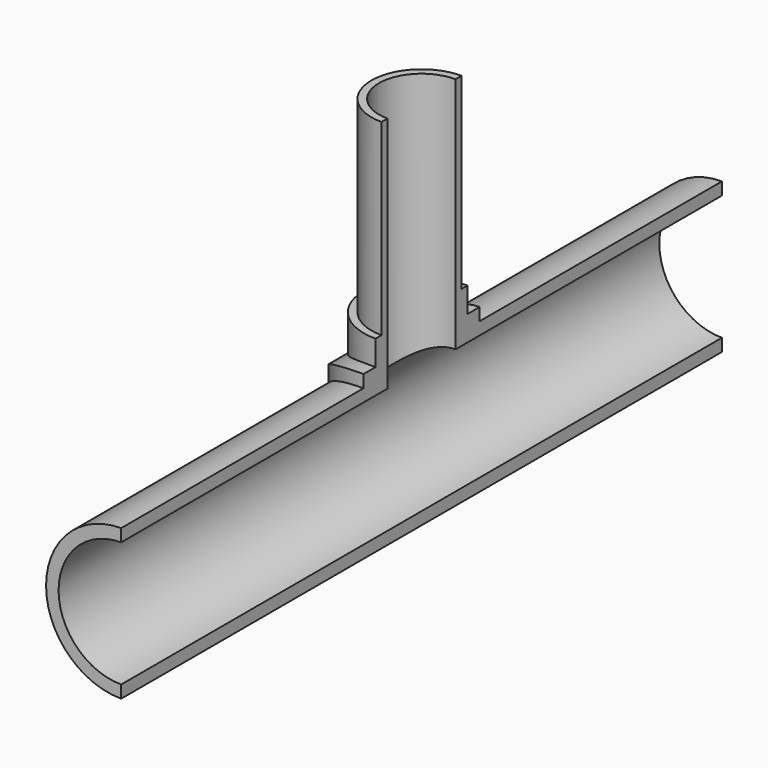
from build123d import *

# Parameters (mm, degrees)
BOX002_W               = 500
BOX002_H               = 1800
BOX002_DEPTH           = 1000
CYLINDER011_R          = 125
CYLINDER011_DEPTH      = 1500
CYLINDER011_ROLL_ANGLE = 90
BOX001_W               = 500
BOX001_H               = 1800
BOX001_DEPTH           = 1000
CYLINDER007_R          = 125
CYLINDER007_DEPTH      = 1500
CYLINDER007_ROLL_ANGLE = 90
CYLINDER006_R          = 85
CYLINDER006_DEPTH      = 600
CYLINDER002_R          = 115
CYLINDER002_DEPTH      = 225
CYLINDER001_R          = 150
CYLINDER001_DEPTH      = 1500
CYLINDER001_ROLL_ANGLE = 90
CYLINDER_R             = 100
CYLINDER_DEPTH         = 600
BOX_W                  = 500
BOX_H                  = 500
BOX_DEPTH              = 500
CYLINDER004_R          = 145
CYLINDER004_DEPTH      = 600
CYLINDER005_R          = 300
CYLINDER005_DEPTH      = 600
CYLINDER003_R          = 175
CYLINDER003_DEPTH      = 400
CYLINDER003_ROLL_ANGLE = 90
CYLINDER010_R          = 150
CYLINDER010_DEPTH      = 200
CYLINDER010_ROLL_ANGLE = 90
CYLINDER009_R          = 150
CYLINDER009_DEPTH      = 200
CYLINDER009_ROLL_ANGLE = 90


with BuildPart() as cube002:
    # Box002 → Box002 (new body)
    with BuildSketch(Plane(origin=(0, -815, -274), x_dir=(1, 0, 0), z_dir=(0, 0, 1))):
        with Locations((250, 900)):
            Rectangle(BOX002_W, BOX002_H)
    extrude(amount=BOX002_DEPTH)


with BuildPart() as cylinder011:
    # Cylinder011 → Cylinder011 (new body)
    with BuildSketch(Plane.XY):
        Circle(CYLINDER011_R)
    extrude(amount=CYLINDER011_DEPTH)


with BuildPart() as cylinder011_1:
    # Cylinder011 roll: moved
    add(cylinder011.part.rotate(Axis((0, 0, 0), (1, 0, 0)), CYLINDER011_ROLL_ANGLE))


with BuildPart() as cylinder011_2:
    # Cylinder011 placement: moved
    add(cylinder011_1.part.moved(Location((0, 750, 0))))


with BuildPart() as cube001:
    # Box001 → Box001 (new body)
    with BuildSketch(Plane(origin=(0, -815, -274), x_dir=(1, 0, 0), z_dir=(0, 0, 1))):
        with Locations((250, 900)):
            Rectangle(BOX001_W, BOX001_H)
    extrude(amount=BOX001_DEPTH)


with BuildPart() as cylinder007:
    # Cylinder007 → Cylinder007 (new body)
    with BuildSketch(Plane.XY):
        Circle(CYLINDER007_R)
    extrude(amount=CYLINDER007_DEPTH)


with BuildPart() as cylinder007_1:
    # Cylinder007 roll: moved
    add(cylinder007.part.rotate(Axis((0, 0, 0), (1, 0, 0)), CYLINDER007_ROLL_ANGLE))


with BuildPart() as cylinder007_2:
    # Cylinder007 placement: moved
    add(cylinder007_1.part.moved(Location((0, 750, 0))))


with BuildPart() as cylinder006:
    # Cylinder006 → Cylinder006 (new body)
    with BuildSketch(Plane.XY):
        Circle(CYLINDER006_R)
    extrude(amount=CYLINDER006_DEPTH)


with BuildPart() as cylinder002:
    # Cylinder002 → Cylinder002 (new body)
    with BuildSketch(Plane.XY):
        Circle(CYLINDER002_R)
    extrude(amount=CYLINDER002_DEPTH)


with BuildPart() as cylinder001:
    # Cylinder001 → Cylinder001 (new body)
    with BuildSketch(Plane.XY):
        Circle(CYLINDER001_R)
    extrude(amount=CYLINDER001_DEPTH)


with BuildPart() as cylinder001_1:
    # Cylinder001 roll: moved
    add(cylinder001.part.rotate(Axis((0, 0, 0), (1, 0, 0)), CYLINDER001_ROLL_ANGLE))


with BuildPart() as cylinder001_2:
    # Cylinder001 placement: moved
    add(cylinder001_1.part.moved(Location((0, 750, 0))))


with BuildPart() as cylinder:
    # Cylinder → Cylinder (new body)
    with BuildSketch(Plane.XY):
        Circle(CYLINDER_R)
    extrude(amount=CYLINDER_DEPTH)


with BuildPart() as cube:
    # Box → Box (new body)
    with BuildSketch(Plane(origin=(-226, -279, -480), x_dir=(1, 0, 0), z_dir=(0, 0, 1))):
        with Locations((250, 250)):
            Rectangle(BOX_W, BOX_H)
    extrude(amount=BOX_DEPTH)


with BuildPart() as cylinder004:
    # Cylinder004 → Cylinder004 (new body)
    with BuildSketch(Plane.XY):
        Circle(CYLINDER004_R)
    extrude(amount=CYLINDER004_DEPTH)


with BuildPart() as cut:
    # Cylinder005 → Cylinder005 (new body)
    with BuildSketch(Plane.XY):
        Circle(CYLINDER005_R)
    extrude(amount=CYLINDER005_DEPTH)

    # Cut: cut Cylinder004
    add(cylinder004.part, mode=Mode.SUBTRACT)


with BuildPart() as cut005:
    # Cylinder003 → Cylinder003 (new body)
    with BuildSketch(Plane.XY):
        Circle(CYLINDER003_R)
    extrude(amount=CYLINDER003_DEPTH)


with BuildPart() as cut005_1:
    # Cylinder003 roll: moved
    add(cut005.part.rotate(Axis((0, 0, 0), (1, 0, 0)), CYLINDER003_ROLL_ANGLE))


with BuildPart() as cut005_2:
    # Cylinder003 placement: moved
    add(cut005_1.part.moved(Location((0, 200, 0))))

    # Cut001: cut Cut
    add(cut.part, mode=Mode.SUBTRACT)

    # Cut002: cut Cube
    add(cube.part, mode=Mode.SUBTRACT)

    # Fusion: union Cylinder002, Cylinder001, Cylinder
    add(cylinder002.part)
    add(cylinder001_2.part)
    add(cylinder.part)

    # Cut003: cut Cylinder006
    add(cylinder006.part, mode=Mode.SUBTRACT)

    # Cut004: cut Cylinder007
    add(cylinder007_2.part, mode=Mode.SUBTRACT)

    # Cut005: cut Cube001
    add(cube001.part, mode=Mode.SUBTRACT)


with BuildPart() as cylinder010:
    # Cylinder010 → Cylinder010 (new body)
    with BuildSketch(Plane.XY):
        Circle(CYLINDER010_R)
    extrude(amount=CYLINDER010_DEPTH)


with BuildPart() as cylinder010_1:
    # Cylinder010 roll: moved
    add(cylinder010.part.rotate(Axis((0, 0, 0), (1, 0, 0)), CYLINDER010_ROLL_ANGLE))


with BuildPart() as cylinder010_2:
    # Cylinder010 placement: moved
    add(cylinder010_1.part.moved(Location((0, 350, 0))))


with BuildPart() as cut007:
    # Cylinder009 → Cylinder009 (new body)
    with BuildSketch(Plane.XY):
        Circle(CYLINDER009_R)
    extrude(amount=CYLINDER009_DEPTH)


with BuildPart() as cut007_1:
    # Cylinder009 roll: moved
    add(cut007.part.rotate(Axis((0, 0, 0), (1, 0, 0)), CYLINDER009_ROLL_ANGLE))


with BuildPart() as cut007_2:
    # Cylinder009 placement: moved
    add(cut007_1.part.moved(Location((0, -150, 0))))

    # Fusion002: union Cylinder010
    add(cylinder010_2.part)

    # Fusion003: union Cut005
    add(cut005_2.part)

    # Cut006: cut Cylinder011
    add(cylinder011_2.part, mode=Mode.SUBTRACT)

    # Cut007: cut Cube002
    add(cube002.part, mode=Mode.SUBTRACT)


solid = cut007_2.part
